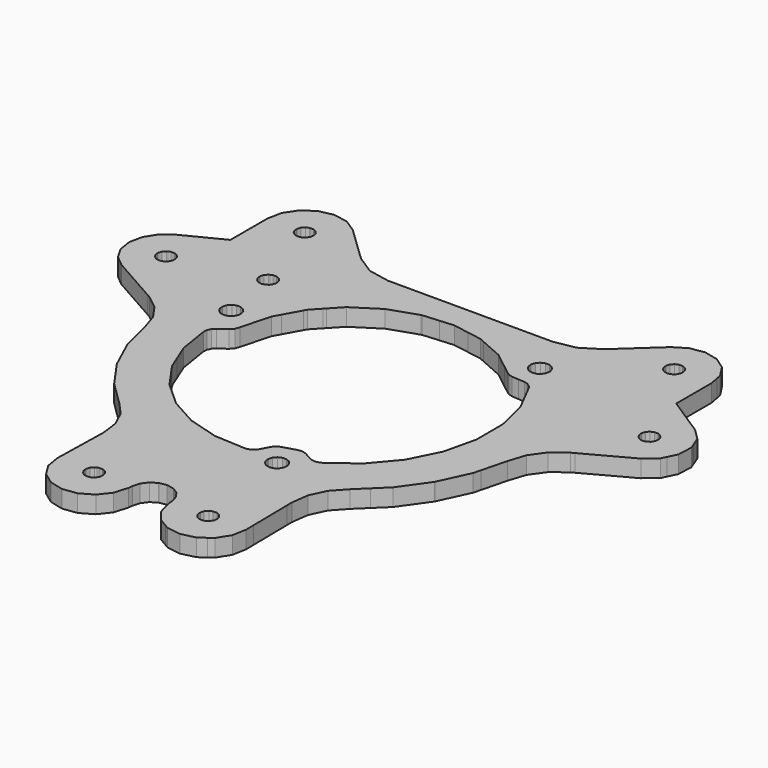
from build123d import *

# Parameters (mm, degrees)
F1_DEPTH = 3


with BuildPart() as f1:
    # F0 (on Top) → F1 (new body)
    with BuildSketch(Plane.XY):
        Polygon((-24.151107, -14.209598), (-20.008063, -18.272506), (-17.984826, -20.5105), (-17.541164, -21.472296), (-16.721125, -23.250068), (-16.332022, -26.241832), (-16.358438, -27.438299), (-16.522141, -34.847632), (-16.548633, -36.04702), (-16.129102, -38.492125), (-14.824075, -40.601951), (-12.823673, -42.069207), (-10.419232, -42.680103), (-7.961046, -42.345686), (-5.807177, -41.114675), (-4.271416, -39.166368), (-3.577412, -36.78461), (-3.512007, -36.071734), (-3.163621, -34.847632), (-3.159938, -34.834754), (-2.38285, -33.809965), (-1.337691, -33.168488), (-1.286739, -33.137221), (-0.021158, -32.908265), (1.241171, -33.154391), (2.328037, -33.841995), (3.069311, -34.847632), (3.091129, -34.877248), (3.426333, -36.118902), (3.495954, -37.010619), (4.159606, -39.405839), (5.6737, -41.376879), (7.175525, -42.258869), (7.816875, -42.635526), (10.275799, -42.99778), (12.690907, -42.410659), (13.90335, -41.539185), (14.709089, -40.960015), (16.035299, -38.857936), (16.475558, -36.411789), (16.453206, -34.847632), (16.347313, -27.438299), (16.33159, -26.337641), (16.742893, -23.352836), (18.024602, -20.625994), (20.060336, -18.404738), (22.049207, -16.478098), (24.249659, -14.34653), (27.627885, -9.591827), (27.642033, -9.561322), (30.081525, -4.300423), (30.39966, -3.057779), (31.528131, 1.349959), (32.461556, 4.247337), (34.223401, 6.729654), (36.650422, 8.566912), (37.186692, 8.856497), (45.14596, 13.154863), (47.185885, 14.880717), (47.597187, 15.722295), (48.359136, 17.281398), (48.467416, 19.951243), (48.221824, 20.577988), (48.086924, 20.922183), (47.492488, 22.439071), (45.599045, 24.324462), (40.865247, 27.400606), (38.816077, 28.732201), (38.816077, 31.379262), (38.816077, 36.374603), (38.516357, 37.921413), (38.342087, 38.820776), (37.186692, 40.595423), (36.982629, 40.908884), (34.937421, 42.332097), (32.507047, 42.881296), (30.048606, 42.475785), (27.923363, 41.175127), (27.642033, 40.91719), (24.374602, 37.921413), (22.049207, 35.789337), (21.260435, 35.066148), (18.121325, 33.114767), (14.487779, 32.436968), (13.90335, 32.437832), (7.175525, 32.447662), (-1.337691, 32.460108), (-14.087348, 32.478751), (-17.541164, 33.150327), (-17.806289, 33.201864), (-20.989341, 35.256521), (-23.771987, 37.921413), (-27.188008, 41.192882), (-27.626107, 41.473222), (-29.301999, 42.54561), (-29.30492, 42.547464), (-31.777483, 42.99778), (-34.236025, 42.47642), (-36.313034, 41.061386), (-36.826546, 40.283816), (-37.697994, 38.96421), (-37.903455, 37.921413), (-38.183845, 36.498428), (-38.183845, 31.379262), (-38.183845, 28.491561), (-40.333828, 27.400606), (-44.910451, 25.078284), (-45.969149, 24.274628), (-46.761324, 23.673308), (-47.999752, 21.707119), (-48.161042, 20.922183), (-48.231755, 20.577988), (-48.467442, 19.430975), (-48.104654, 17.135754), (-47.302496, 15.722295), (-46.957742, 15.114803), (-45.969149, 14.290269), (-45.173265, 13.626414), (-36.826546, 8.897544), (-36.27595, 8.585581), (-33.926501, 6.741973), (-32.22625, 4.286758), (-31.326836, 1.438961), (-30.19138, -3.057779), (-29.906189, -4.187241), (-29.301999, -5.504815), (-27.626107, -9.159545), (-27.487474, -9.461881), align=None)
        Polygon((-10.641203, -34.847632), (-10.362082, -34.723375), (-9.73836, -34.723375), (-9.459239, -34.847632), (-9.168536, -34.97707), (-8.751189, -35.440595), (-8.558428, -36.033812), (-8.62363, -36.654105), (-8.935517, -37.194287), (-9.440113, -37.56091), (-10.050221, -37.690577), (-10.660329, -37.56091), (-11.164926, -37.194287), (-11.476812, -36.654105), (-11.542014, -36.033812), (-11.349253, -35.440595), (-10.931906, -34.97707), align=None, mode=Mode.SUBTRACT)
        Polygon((9.976231, -38.004674), (9.366123, -37.875007), (8.861527, -37.508383), (8.54964, -36.968201), (8.484438, -36.347908), (8.677199, -35.754691), (9.094546, -35.291166), (9.66437, -35.037471), (10.288092, -35.037471), (10.857916, -35.291166), (11.275263, -35.754691), (11.468024, -36.347908), (11.402822, -36.968201), (11.090961, -37.508383), (10.586339, -37.875007), align=None, mode=Mode.SUBTRACT)
        Polygon((8.195945, -20.043343), (7.524826, -20.18599), (7.175525, -20.111745), (6.853733, -20.043343), (6.298641, -19.640067), (5.955589, -19.045885), (5.883885, -18.36354), (6.095898, -17.710988), (6.555003, -17.201109), (7.175525, -16.924833), (7.181774, -16.922064), (7.867879, -16.922064), (8.494674, -17.201109), (8.953779, -17.710988), (9.165793, -18.36354), (9.094089, -19.045885), (8.751037, -19.640067), align=None, mode=Mode.SUBTRACT)
        Polygon((-41.359049, 17.911521), (-41.969157, 17.781829), (-42.579265, 17.911521), (-43.083886, 18.278145), (-43.395748, 18.818301), (-43.460949, 19.43862), (-43.268214, 20.031837), (-42.850841, 20.495362), (-42.665244, 20.577988), (-42.281018, 20.749057), (-41.657295, 20.749057), (-41.27307, 20.577988), (-41.087472, 20.495362), (-40.670124, 20.031837), (-40.477389, 19.43862), (-40.542566, 18.818301), (-40.854452, 18.278145), align=None, mode=Mode.SUBTRACT)
        Polygon((-23.955934, 11.316386), (-24.511025, 10.91311), (-25.182119, 10.770464), (-25.853238, 10.91311), (-26.408304, 11.316386), (-26.751382, 11.910593), (-26.823086, 12.592939), (-26.611072, 13.245465), (-26.151967, 13.755345), (-25.525171, 14.034414), (-24.839066, 14.034414), (-24.212271, 13.755345), (-23.753191, 13.245465), (-23.541177, 12.592939), (-23.612881, 11.910593), align=None, mode=Mode.SUBTRACT)
        Polygon((-26.30998, 21.192211), (-26.920088, 21.062518), (-27.530196, 21.192211), (-27.626107, 21.261883), (-28.034818, 21.558834), (-28.346679, 22.098991), (-28.411881, 22.719309), (-28.219146, 23.312526), (-27.801773, 23.776051), (-27.626107, 23.854258), (-27.231975, 24.029746), (-26.608227, 24.029746), (-26.038429, 23.776051), (-25.621056, 23.312526), (-25.428321, 22.719309), (-25.493523, 22.098991), (-25.805384, 21.558834), align=None, mode=Mode.SUBTRACT)
        Polygon((-32.027266, 37.921413), (-31.995796, 37.935433), (-31.372048, 37.935433), (-31.340552, 37.921413), (-30.80225, 37.681738), (-30.384877, 37.218214), (-30.192142, 36.624997), (-30.257344, 36.004678), (-30.569205, 35.464521), (-31.073827, 35.097898), (-31.683909, 34.968205), (-32.294017, 35.097898), (-32.798639, 35.464521), (-33.1105, 36.004678), (-33.175702, 36.624997), (-32.982967, 37.218214), (-32.565594, 37.681738), align=None, mode=Mode.SUBTRACT)
        Polygon((-23.356291, -0.162992), (-24.227003, 5.26862), (-24.146053, 5.930544), (-23.851972, 6.529045), (-23.3775, 6.997624), (-22.025026, 7.946161), (-21.466175, 8.541842), (-21.192058, 9.311284), (-19.832828, 14.422907), (-19.111874, 15.722295), (-17.541164, 18.553328), (-17.266717, 19.047993), (-15.832303, 20.577988), (-15.509596, 20.922183), (-13.649096, 22.906634), (-9.198889, 25.765277), (-4.335094, 27.400606), (-4.185437, 27.450923), (-1.337691, 27.67269), (1.087857, 27.861565), (3.790696, 27.400606), (6.301842, 26.972336), (7.175525, 26.586815), (11.140923, 24.83706), (13.90335, 22.683394), (15.312263, 21.584971), (15.895599, 21.179841), (16.583736, 21.004124), (17.727778, 20.922183), (18.813755, 20.844383), (19.401841, 20.711135), (19.631457, 20.577988), (19.923455, 20.408671), (20.331227, 19.964476), (22.049207, 16.615715), (22.50755, 15.722295), (22.934981, 14.88915), (24.287048, 9.347454), (24.313312, 3.643249), (23.012349, -1.910664), (22.437141, -3.057779), (22.049207, -3.831438), (20.455458, -7.009765), (16.782898, -11.374476), (13.90335, -13.50325), (12.195988, -14.765452), (11.550447, -14.998751), (10.864063, -15.000046), (10.217633, -14.769211), (8.920455, -14.034262), (8.391423, -13.827277), (7.825537, -13.777366), (7.268439, -13.888568), (7.175525, -13.916177), (5.178679, -14.509496), (4.645863, -14.723643), (4.195877, -15.080361), (3.865778, -15.55021), (3.213151, -16.840175), (2.798623, -17.394326), (2.220036, -17.774006), (1.546682, -17.933797), (-1.337691, -17.777765), (-3.946246, -17.636642), (-9.232468, -16.114598), (-14.04239, -13.445261), (-17.541164, -10.295534), (-18.130774, -9.764751), (-21.289086, -5.260772), (-22.18243, -3.057779), align=None, mode=Mode.SUBTRACT)
        Polygon((42.057295, 17.374133), (41.447187, 17.503826), (40.94259, 17.870449), (40.630704, 18.410606), (40.565502, 19.030925), (40.758262, 19.624142), (41.17561, 20.087666), (41.745433, 20.341361), (42.369156, 20.341361), (42.938979, 20.087666), (43.356327, 19.624142), (43.549062, 19.030925), (43.483886, 18.410606), (43.172024, 17.870449), (42.667403, 17.503826), align=None, mode=Mode.SUBTRACT)
        Polygon((17.980457, 23.617301), (17.309338, 23.759947), (16.754272, 24.163223), (16.411194, 24.757431), (16.33949, 25.439751), (16.551504, 26.092302), (17.010609, 26.602182), (17.637404, 26.881226), (18.323484, 26.881226), (18.95028, 26.602182), (19.409385, 26.092302), (19.621398, 25.439751), (19.549694, 24.757431), (19.206616, 24.163223), (18.651576, 23.759947), align=None, mode=Mode.SUBTRACT)
        Polygon((32.31609, 34.874606), (31.705982, 35.004299), (31.20136, 35.370897), (30.889499, 35.911079), (30.824297, 36.531398), (31.017058, 37.124615), (31.434405, 37.588139), (32.004203, 37.841834), (32.627951, 37.841834), (33.197749, 37.588139), (33.615122, 37.124615), (33.807857, 36.531398), (33.742655, 35.911079), (33.430794, 35.370897), (32.926198, 35.004299), align=None, mode=Mode.SUBTRACT)
    extrude(amount=F1_DEPTH)


solid = f1.part
